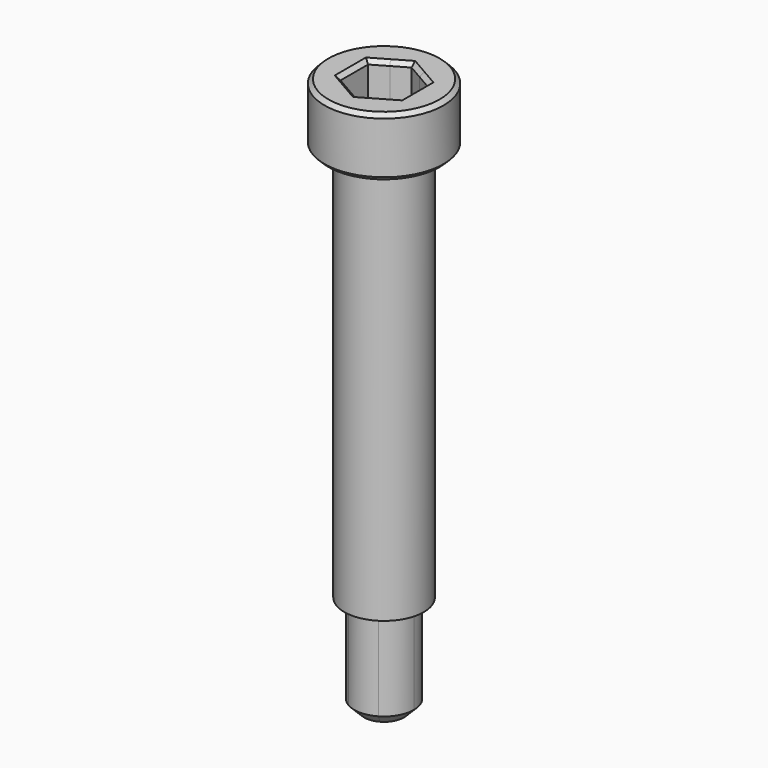
from build123d import *

# Parameters (mm, degrees)
F0_R     = 3
F0_R_2   = 2
F1_DEPTH = 3
F2_DEPTH = 20
F3_DEPTH = 25
F4_START = 1
F4_DEPTH = 2
F5_SIZE  = 0.2
F6_SIZE  = 0.5


with BuildPart() as f1:
    # F0 (on Top) → F1 (new body)
    with BuildSketch(Plane.XY):
        Circle(F0_R)
        Circle(F0_R_2, mode=Mode.SUBTRACT)
        Circle(F0_R_2)
        Polygon((1.5, 0.8660254038), (1.5, 0), (1.5, -0.8660254038), (0.7499999928, -1.2990381098), (0, -1.7320508076), (-0.7499999928, -1.2990381098), (-1.5, -0.8660254038), (-1.5, 0), (-1.5, 0.8660254038), (-0.7499999928, 1.2990381098), (0, 1.7320508076), (0.7499999928, 1.2990381098), align=None, mode=Mode.SUBTRACT)
        with BuildLine():
            ThreePointArc((0.7499999928, -1.2990381098), (1.2990381036, -0.7500000036), (1.5, 0))
            ThreePointArc((1.5, 0), (1.2990381036, 0.7500000036), (0.7499999928, 1.2990381098))
            ThreePointArc((0.7499999928, 1.2990381098), (0, 1.5), (-0.7499999928, 1.2990381098))
            ThreePointArc((-0.7499999928, 1.2990381098), (-1.2990381036, 0.7500000036), (-1.5, 0))
            ThreePointArc((-1.5, 0), (-1.2990381036, -0.7500000036), (-0.7499999928, -1.2990381098))
            ThreePointArc((-0.7499999928, -1.2990381098), (0, -1.5), (0.7499999928, -1.2990381098))
        make_face()
        with BuildLine():
            Line((0, -1.7320508076), (0.7499999928, -1.2990381098))
            ThreePointArc((0.7499999928, -1.2990381098), (0, -1.5), (-0.7499999928, -1.2990381098))
            Line((-0.7499999928, -1.2990381098), (0, -1.7320508076))
        make_face()
        with BuildLine():
            Line((1.5, -0.8660254038), (1.5, 0))
            ThreePointArc((1.5, 0), (1.2990381036, -0.7500000036), (0.7499999928, -1.2990381098))
            Line((0.7499999928, -1.2990381098), (1.5, -0.8660254038))
        make_face()
        with BuildLine():
            ThreePointArc((0.7499999928, 1.2990381098), (1.2990381036, 0.7500000036), (1.5, 0))
            Line((1.5, 0), (1.5, 0.8660254038))
            Line((1.5, 0.8660254038), (0.7499999928, 1.2990381098))
        make_face()
        with BuildLine():
            ThreePointArc((-0.7499999928, 1.2990381098), (0, 1.5), (0.7499999928, 1.2990381098))
            Line((0.7499999928, 1.2990381098), (0, 1.7320508076))
            Line((0, 1.7320508076), (-0.7499999928, 1.2990381098))
        make_face()
        with BuildLine():
            ThreePointArc((-1.5, 0), (-1.2990381036, 0.7500000036), (-0.7499999928, 1.2990381098))
            Line((-0.7499999928, 1.2990381098), (-1.5, 0.8660254038))
            Line((-1.5, 0.8660254038), (-1.5, 0))
        make_face()
        with BuildLine():
            Line((-1.5, -0.8660254038), (-0.7499999928, -1.2990381098))
            ThreePointArc((-0.7499999928, -1.2990381098), (-1.2990381036, -0.7500000036), (-1.5, 0))
            Line((-1.5, 0), (-1.5, -0.8660254038))
        make_face()
    extrude(amount=F1_DEPTH)

    # F0 (on Top) → F2 (join)
    with BuildSketch(Plane.XY):
        Circle(F0_R_2)
        Polygon((1.5, 0.8660254038), (1.5, 0), (1.5, -0.8660254038), (0.7499999928, -1.2990381098), (0, -1.7320508076), (-0.7499999928, -1.2990381098), (-1.5, -0.8660254038), (-1.5, 0), (-1.5, 0.8660254038), (-0.7499999928, 1.2990381098), (0, 1.7320508076), (0.7499999928, 1.2990381098), align=None, mode=Mode.SUBTRACT)
        with BuildLine():
            ThreePointArc((0.7499999928, -1.2990381098), (1.2990381036, -0.7500000036), (1.5, 0))
            ThreePointArc((1.5, 0), (1.2990381036, 0.7500000036), (0.7499999928, 1.2990381098))
            ThreePointArc((0.7499999928, 1.2990381098), (0, 1.5), (-0.7499999928, 1.2990381098))
            ThreePointArc((-0.7499999928, 1.2990381098), (-1.2990381036, 0.7500000036), (-1.5, 0))
            ThreePointArc((-1.5, 0), (-1.2990381036, -0.7500000036), (-0.7499999928, -1.2990381098))
            ThreePointArc((-0.7499999928, -1.2990381098), (0, -1.5), (0.7499999928, -1.2990381098))
        make_face()
        with BuildLine():
            Line((0, -1.7320508076), (0.7499999928, -1.2990381098))
            ThreePointArc((0.7499999928, -1.2990381098), (0, -1.5), (-0.7499999928, -1.2990381098))
            Line((-0.7499999928, -1.2990381098), (0, -1.7320508076))
        make_face()
        with BuildLine():
            Line((1.5, -0.8660254038), (1.5, 0))
            ThreePointArc((1.5, 0), (1.2990381036, -0.7500000036), (0.7499999928, -1.2990381098))
            Line((0.7499999928, -1.2990381098), (1.5, -0.8660254038))
        make_face()
        with BuildLine():
            ThreePointArc((0.7499999928, 1.2990381098), (1.2990381036, 0.7500000036), (1.5, 0))
            Line((1.5, 0), (1.5, 0.8660254038))
            Line((1.5, 0.8660254038), (0.7499999928, 1.2990381098))
        make_face()
        with BuildLine():
            ThreePointArc((-0.7499999928, 1.2990381098), (0, 1.5), (0.7499999928, 1.2990381098))
            Line((0.7499999928, 1.2990381098), (0, 1.7320508076))
            Line((0, 1.7320508076), (-0.7499999928, 1.2990381098))
        make_face()
        with BuildLine():
            ThreePointArc((-1.5, 0), (-1.2990381036, 0.7500000036), (-0.7499999928, 1.2990381098))
            Line((-0.7499999928, 1.2990381098), (-1.5, 0.8660254038))
            Line((-1.5, 0.8660254038), (-1.5, 0))
        make_face()
        with BuildLine():
            Line((-1.5, -0.8660254038), (-0.7499999928, -1.2990381098))
            ThreePointArc((-0.7499999928, -1.2990381098), (-1.2990381036, -0.7500000036), (-1.5, 0))
            Line((-1.5, 0), (-1.5, -0.8660254038))
        make_face()
    extrude(amount=-F2_DEPTH)

    # F0 (on Top) → F3 (join)
    with BuildSketch(Plane.XY):
        with BuildLine():
            ThreePointArc((0.7499999928, -1.2990381098), (1.2990381036, -0.7500000036), (1.5, 0))
            ThreePointArc((1.5, 0), (1.2990381036, 0.7500000036), (0.7499999928, 1.2990381098))
            ThreePointArc((0.7499999928, 1.2990381098), (0, 1.5), (-0.7499999928, 1.2990381098))
            ThreePointArc((-0.7499999928, 1.2990381098), (-1.2990381036, 0.7500000036), (-1.5, 0))
            ThreePointArc((-1.5, 0), (-1.2990381036, -0.7500000036), (-0.7499999928, -1.2990381098))
            ThreePointArc((-0.7499999928, -1.2990381098), (0, -1.5), (0.7499999928, -1.2990381098))
        make_face()
    extrude(amount=-F3_DEPTH)

    # F0 (on Top) → F4 (cut)
    with BuildSketch(Plane.XY.offset(F4_START)):
        with BuildLine():
            ThreePointArc((0.7499999928, -1.2990381098), (1.2990381036, -0.7500000036), (1.5, 0))
            ThreePointArc((1.5, 0), (1.2990381036, 0.7500000036), (0.7499999928, 1.2990381098))
            ThreePointArc((0.7499999928, 1.2990381098), (0, 1.5), (-0.7499999928, 1.2990381098))
            ThreePointArc((-0.7499999928, 1.2990381098), (-1.2990381036, 0.7500000036), (-1.5, 0))
            ThreePointArc((-1.5, 0), (-1.2990381036, -0.7500000036), (-0.7499999928, -1.2990381098))
            ThreePointArc((-0.7499999928, -1.2990381098), (0, -1.5), (0.7499999928, -1.2990381098))
        make_face()
        with BuildLine():
            ThreePointArc((-0.7499999928, 1.2990381098), (0, 1.5), (0.7499999928, 1.2990381098))
            Line((0.7499999928, 1.2990381098), (0, 1.7320508076))
            Line((0, 1.7320508076), (-0.7499999928, 1.2990381098))
        make_face()
        with BuildLine():
            ThreePointArc((0.7499999928, 1.2990381098), (1.2990381036, 0.7500000036), (1.5, 0))
            Line((1.5, 0), (1.5, 0.8660254038))
            Line((1.5, 0.8660254038), (0.7499999928, 1.2990381098))
        make_face()
        with BuildLine():
            Line((1.5, -0.8660254038), (1.5, 0))
            ThreePointArc((1.5, 0), (1.2990381036, -0.7500000036), (0.7499999928, -1.2990381098))
            Line((0.7499999928, -1.2990381098), (1.5, -0.8660254038))
        make_face()
        with BuildLine():
            Line((0, -1.7320508076), (0.7499999928, -1.2990381098))
            ThreePointArc((0.7499999928, -1.2990381098), (0, -1.5), (-0.7499999928, -1.2990381098))
            Line((-0.7499999928, -1.2990381098), (0, -1.7320508076))
        make_face()
        with BuildLine():
            ThreePointArc((-1.5, 0), (-1.2990381036, 0.7500000036), (-0.7499999928, 1.2990381098))
            Line((-0.7499999928, 1.2990381098), (-1.5, 0.8660254038))
            Line((-1.5, 0.8660254038), (-1.5, 0))
        make_face()
        with BuildLine():
            Line((-1.5, -0.8660254038), (-0.7499999928, -1.2990381098))
            ThreePointArc((-0.7499999928, -1.2990381098), (-1.2990381036, -0.7500000036), (-1.5, 0))
            Line((-1.5, 0), (-1.5, -0.8660254038))
        make_face()
    extrude(amount=F4_DEPTH, mode=Mode.SUBTRACT)

    # F5
    f5_edges = [f1.edges().sort_by_distance(p)[0] for p in [
        (-3, 0, 3),
        (-0.75, 1.299038, 3),
        (0.75, 1.299038, 3),
        (1.5, 0, 3),
        (0.75, -1.299038, 3),
        (-1.5, 0, 3),
        (-0.75, -1.299038, 3),
        (-3, 0, 0),
    ]]
    chamfer(f5_edges, length=F5_SIZE)

    # F6
    f6_edges = [f1.edges().sort_by_distance(p)[0] for p in [
        (0.75, -1.299038, -25),
    ]]
    chamfer(f6_edges, length=F6_SIZE)


solid = f1.part
